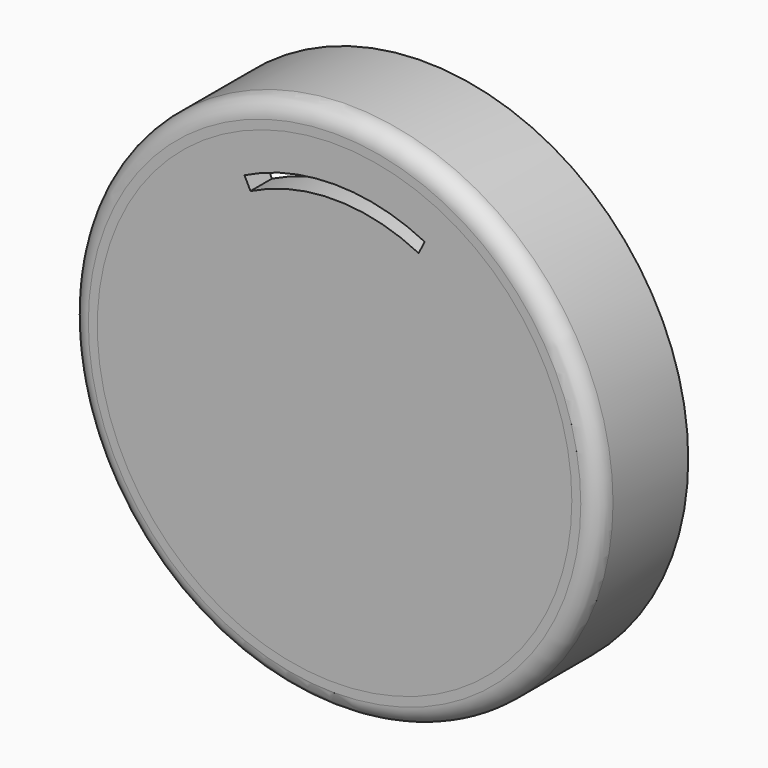
from build123d import *

# Parameters (mm, degrees)
F0_R     = 14.75
F0_R_2   = 13.25
F1_DEPTH = 6.25
F2_DEPTH = 1.5
F3_R     = 13.95
F3_R_2   = 13.25
F4_DEPTH = 1
F5_R     = 1
F7_DEPTH = 1.5


with BuildPart() as f1:
    # F0 (on Front) → F1 (new body)
    with BuildSketch(Plane.XZ):
        Circle(F0_R)
        Circle(F0_R_2, mode=Mode.SUBTRACT)
    extrude(amount=-F1_DEPTH)

    # F3 (on face) → F4 (cut)
    with BuildSketch(Plane(origin=(0, 6.25, 0), x_dir=(-1, 0, 0), z_dir=(0, 1, 0))):
        Circle(F3_R)
        Circle(F3_R_2, mode=Mode.SUBTRACT)
    extrude(amount=-F4_DEPTH, mode=Mode.SUBTRACT)

    # F5
    f5_edges = [f1.edges().sort_by_distance(p)[0] for p in [
        (-14.75, 0, 0),
    ]]
    fillet(f5_edges, radius=F5_R)


with BuildPart() as f2:
    # F0 (on Front) → F2 (new body)
    with BuildSketch(Plane.XZ):
        Circle(F0_R_2)
    extrude(amount=-F2_DEPTH)

    # F6 (on face) → F7 (cut)
    with BuildSketch(Plane.XZ):
        with BuildLine():
            Line((4.695743, 9.391486), (5.031153, 10.062306))
            ThreePointArc((5.031153, 10.062306), (0, 11.25), (-5.031153, 10.062306))
            Line((-5.031153, 10.062306), (-4.695743, 9.391486))
            ThreePointArc((-4.695743, 9.391486), (0, 10.5), (4.695743, 9.391486))
        make_face()
    extrude(amount=-F7_DEPTH, mode=Mode.SUBTRACT)


solid = Compound([f1.part, f2.part])
